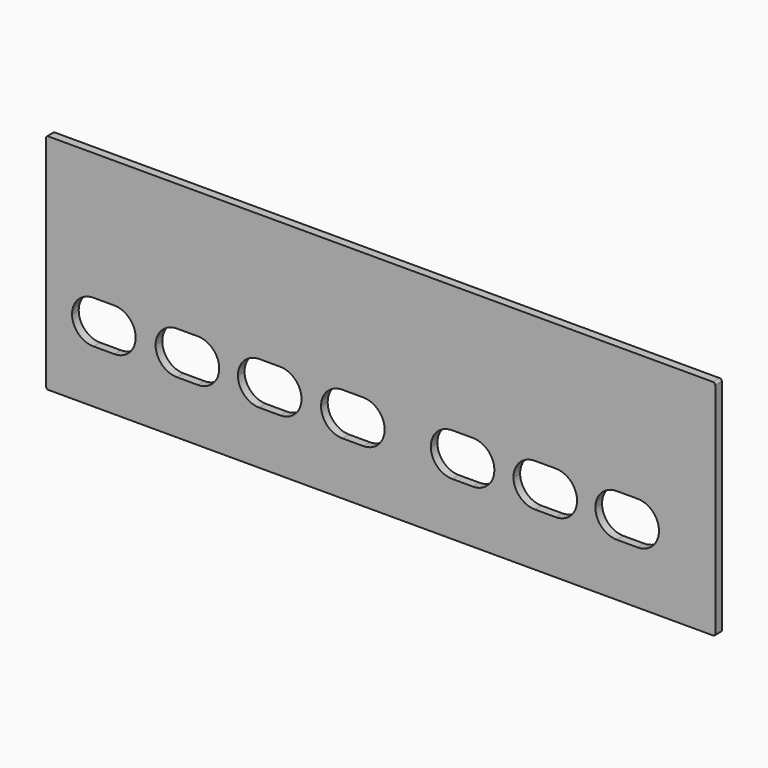
from build123d import *

# Parameters (mm, degrees)
F1_DEPTH = 2


with BuildPart() as f1:
    # F0 (on Front) → F1 (new body)
    with BuildSketch(Plane.XZ):
        with BuildLine():
            ThreePointArc((80.5, 26.35), (80.353553, 26.703553), (80, 26.85))
            Line((80, 26.85), (-80, 26.85))
            ThreePointArc((-80, 26.85), (-80.353553, 26.703553), (-80.5, 26.35))
            Line((-80.5, 26.35), (-80.5, -26.35))
            ThreePointArc((-80.5, -26.35), (-80.353553, -26.703553), (-80, -26.85))
            Line((-80, -26.85), (80, -26.85))
            ThreePointArc((80, -26.85), (80.353553, -26.703553), (80.5, -26.35))
            Line((80.5, -26.35), (80.5, 26.35))
        make_face()
        with BuildLine():
            ThreePointArc((-74.25, -8.95), (-72.7416, -5.3084), (-69.1, -3.8))
            Line((-69.1, -3.8), (-64.1, -3.8))
            ThreePointArc((-64.1, -3.8), (-60.4584, -5.3084), (-58.95, -8.95))
            ThreePointArc((-58.95, -8.95), (-60.4584, -12.5916), (-64.1, -14.1))
            Line((-64.1, -14.1), (-69.1, -14.1))
            ThreePointArc((-69.1, -14.1), (-72.7416, -12.5916), (-74.25, -8.95))
        make_face(mode=Mode.SUBTRACT)
        with BuildLine():
            ThreePointArc((-54.15, -8.95), (-52.6416, -5.3084), (-49, -3.8))
            Line((-49, -3.8), (-44, -3.8))
            ThreePointArc((-44, -3.8), (-40.3584, -5.3084), (-38.85, -8.95))
            ThreePointArc((-38.85, -8.95), (-40.3584, -12.5916), (-44, -14.1))
            Line((-44, -14.1), (-49, -14.1))
            ThreePointArc((-49, -14.1), (-52.6416, -12.5916), (-54.15, -8.95))
        make_face(mode=Mode.SUBTRACT)
        with BuildLine():
            ThreePointArc((-34.35, -8.95), (-32.8416, -5.3084), (-29.2, -3.8))
            Line((-29.2, -3.8), (-24.2, -3.8))
            ThreePointArc((-24.2, -3.8), (-20.5584, -5.3084), (-19.05, -8.95))
            ThreePointArc((-19.05, -8.95), (-20.5584, -12.5916), (-24.2, -14.1))
            Line((-24.2, -14.1), (-29.2, -14.1))
            ThreePointArc((-29.2, -14.1), (-32.8416, -12.5916), (-34.35, -8.95))
        make_face(mode=Mode.SUBTRACT)
        with BuildLine():
            ThreePointArc((-14.35, -8.95), (-12.8416, -5.3084), (-9.2, -3.8))
            Line((-9.2, -3.8), (-4.2, -3.8))
            ThreePointArc((-4.2, -3.8), (-0.5584, -5.3084), (0.95, -8.95))
            ThreePointArc((0.95, -8.95), (-0.5584, -12.5916), (-4.2, -14.1))
            Line((-4.2, -14.1), (-9.2, -14.1))
            ThreePointArc((-9.2, -14.1), (-12.8416, -12.5916), (-14.35, -8.95))
        make_face(mode=Mode.SUBTRACT)
        with BuildLine():
            ThreePointArc((12.05, -8.95), (13.5584, -5.3084), (17.2, -3.8))
            Line((17.2, -3.8), (22.2, -3.8))
            ThreePointArc((22.2, -3.8), (25.8416, -5.3084), (27.35, -8.95))
            ThreePointArc((27.35, -8.95), (25.8416, -12.5916), (22.2, -14.1))
            Line((22.2, -14.1), (17.2, -14.1))
            ThreePointArc((17.2, -14.1), (13.5584, -12.5916), (12.05, -8.95))
        make_face(mode=Mode.SUBTRACT)
        with BuildLine():
            ThreePointArc((31.95, -8.95), (33.4584, -5.3084), (37.1, -3.8))
            Line((37.1, -3.8), (42.1, -3.8))
            ThreePointArc((42.1, -3.8), (45.7416, -5.3084), (47.25, -8.95))
            ThreePointArc((47.25, -8.95), (45.7416, -12.5916), (42.1, -14.1))
            Line((42.1, -14.1), (37.1, -14.1))
            ThreePointArc((37.1, -14.1), (33.4584, -12.5916), (31.95, -8.95))
        make_face(mode=Mode.SUBTRACT)
        with BuildLine():
            ThreePointArc((51.65, -8.95), (53.1584, -5.3084), (56.8, -3.8))
            Line((56.8, -3.8), (61.8, -3.8))
            ThreePointArc((61.8, -3.8), (65.4416, -5.3084), (66.95, -8.95))
            ThreePointArc((66.95, -8.95), (65.4416, -12.5916), (61.8, -14.1))
            Line((61.8, -14.1), (56.8, -14.1))
            ThreePointArc((56.8, -14.1), (53.1584, -12.5916), (51.65, -8.95))
        make_face(mode=Mode.SUBTRACT)
    extrude(amount=F1_DEPTH)


solid = f1.part
